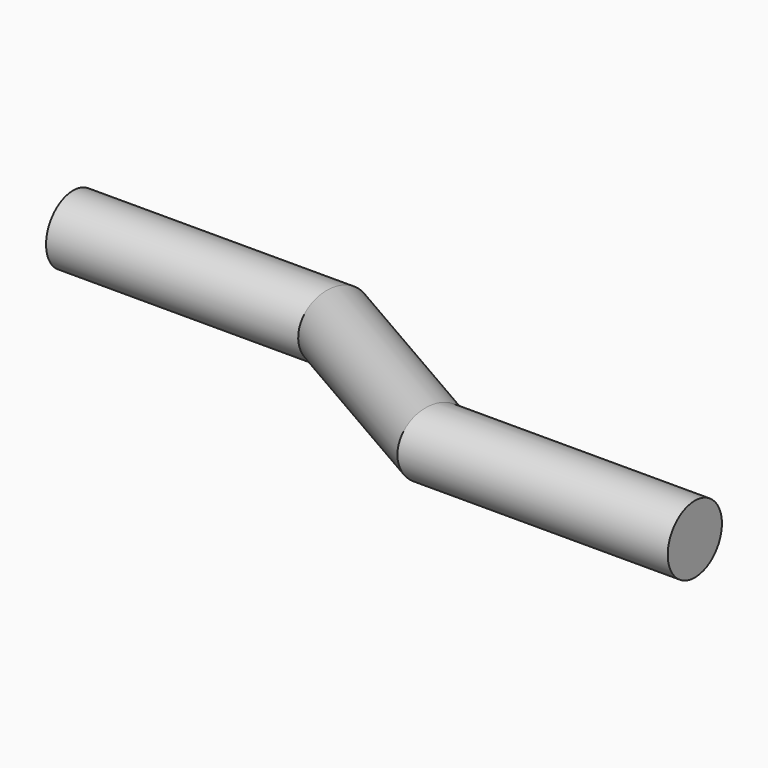
from build123d import *

# Parameters (mm, degrees)
F1_R = 3.5


with BuildPart() as f2:
    # F2: sweep along a path in F0
    with BuildLine(Plane.XY) as f2_path:
        Line((0, 0), (27, 0))
        Line((27, 0), (46.0525588833, -11))
        Line((46.0525588833, -11), (73.0525588833, -11))
    # F1 (on Right) → F2 (sweep)
    with BuildSketch(Plane.YZ):
        Circle(F1_R)
    sweep(path=f2_path.line, transition=Transition.RIGHT)


solid = f2.part
